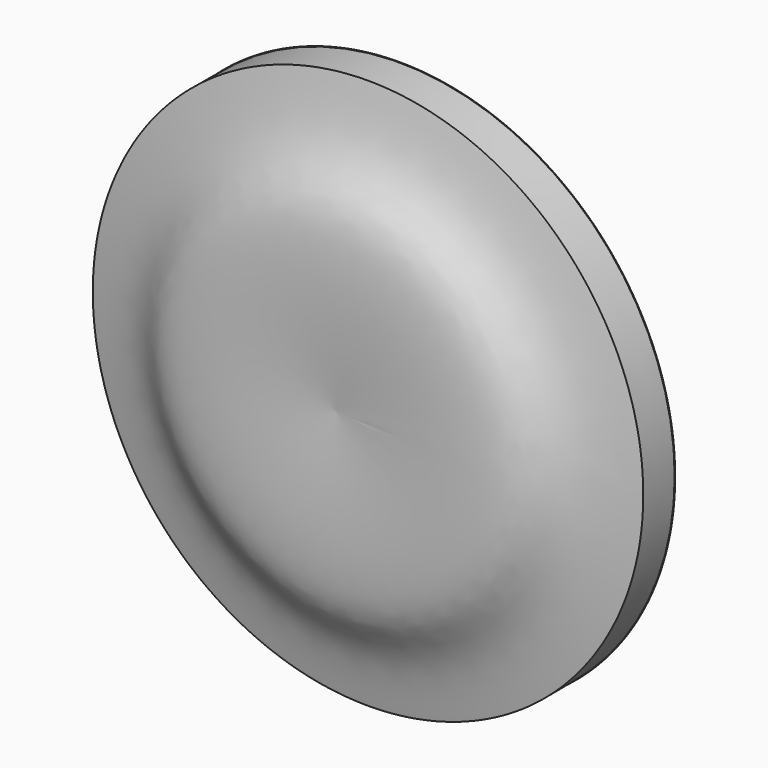
from build123d import *


with BuildPart() as f1:
    # F0 (on Top) → F1 (revolve)
    with BuildSketch(Plane.XY):
        with BuildLine():
            Line((0, 3.175), (0, 0))
            add(Edge.make_bspline(
                [(0, 0), (5.5661209938, -0.443191773), (14.222036767, -1.1643772613), (16.7280166862, 2.4032691149), (22.037096539, 3.1153731094), (22.0526413847, 3.1750249922)],
                knots=[0, 0, 0, 0, 0.4607267025, 0.7201482044, 0.9820695382, 0.9820695382, 0.9820695382, 0.9820695382], degree=3))
            Line((22.0526413847, 3.1750249922), (22.0316629857, 6.3499556854))
            add(Edge.make_bspline(
                [(0, 3.175), (5.5468940832, 2.7333391331), (14.2170792342, 2.0429921692), (16.7461146548, 5.5166300088), (22.2124433958, 6.4657316105), (22.0442781803, 6.3580347457), (22.0316629857, 6.3499556854)],
                knots=[0, 0, 0, 0, 0.4591352259, 0.7176606148, 0.9788198393, 1, 1, 1, 1], degree=3))
        make_face()
    revolve(axis=Axis((0, 1.5875, 0), (0, 1, 0)))


solid = f1.part
